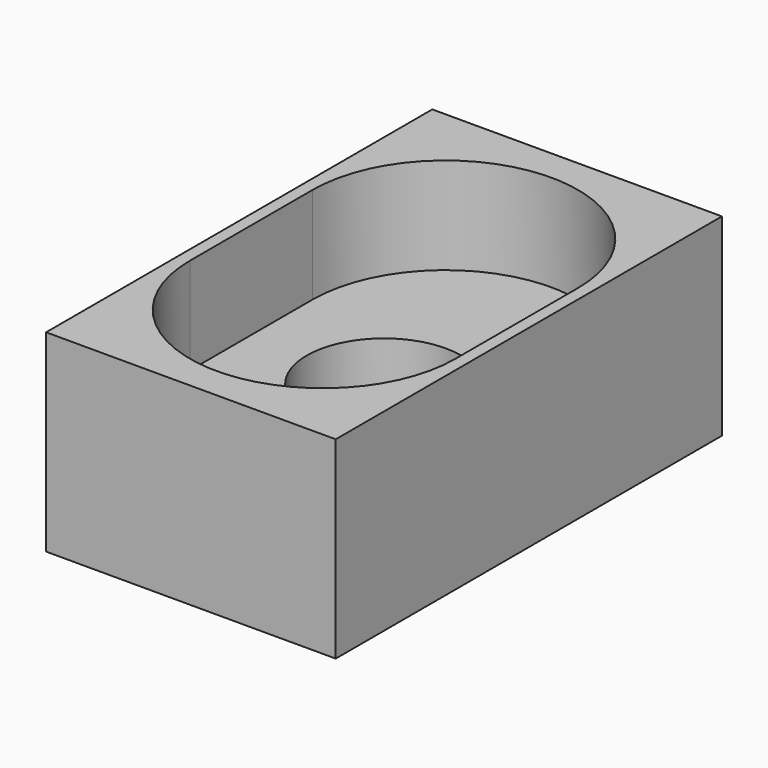
from build123d import *

# Parameters (mm, degrees)
F0_W     = 6
F0_H     = 10
F0_R     = 1.6
F1_DEPTH = 4
F2_DEPTH = 2


with BuildPart() as f1:
    # F0 (on Top) → F1 (new body)
    with BuildSketch(Plane.XY):
        Rectangle(F0_W, F0_H)
        with BuildLine():
            ThreePointArc((-2.75, 1.587713), (0, 4.337713), (2.75, 1.587713))
            Line((2.75, 1.587713), (2.75, -1.587713))
            ThreePointArc((2.75, -1.587713), (0, -4.337713), (-2.75, -1.587713))
            Line((-2.75, -1.587713), (-2.75, 1.587713))
        make_face(mode=Mode.SUBTRACT)
        Polygon((2.75, -1.587713), (2.75, 1.587713), (0, 3.175426), (-2.75, 1.587713), (-2.75, -1.587713), (0, -3.175426), align=None)
        Circle(F0_R, mode=Mode.SUBTRACT)
        with BuildLine():
            ThreePointArc((-2.75, -1.587713), (0, -4.337713), (2.75, -1.587713))
            Line((2.75, -1.587713), (0, -3.175426))
            Line((0, -3.175426), (-2.75, -1.587713))
        make_face()
        with BuildLine():
            Line((0, 3.175426), (2.75, 1.587713))
            ThreePointArc((2.75, 1.587713), (0, 4.337713), (-2.75, 1.587713))
            Line((-2.75, 1.587713), (0, 3.175426))
        make_face()
    extrude(amount=-F1_DEPTH)

    # F0 (on Top) → F2 (cut)
    with BuildSketch(Plane.XY):
        Polygon((2.75, -1.587713), (2.75, 1.587713), (0, 3.175426), (-2.75, 1.587713), (-2.75, -1.587713), (0, -3.175426), align=None)
        Circle(F0_R, mode=Mode.SUBTRACT)
        with BuildLine():
            Line((0, 3.175426), (2.75, 1.587713))
            ThreePointArc((2.75, 1.587713), (0, 4.337713), (-2.75, 1.587713))
            Line((-2.75, 1.587713), (0, 3.175426))
        make_face()
        with BuildLine():
            ThreePointArc((-2.75, -1.587713), (0, -4.337713), (2.75, -1.587713))
            Line((2.75, -1.587713), (0, -3.175426))
            Line((0, -3.175426), (-2.75, -1.587713))
        make_face()
    extrude(amount=-F2_DEPTH, mode=Mode.SUBTRACT)


solid = f1.part
